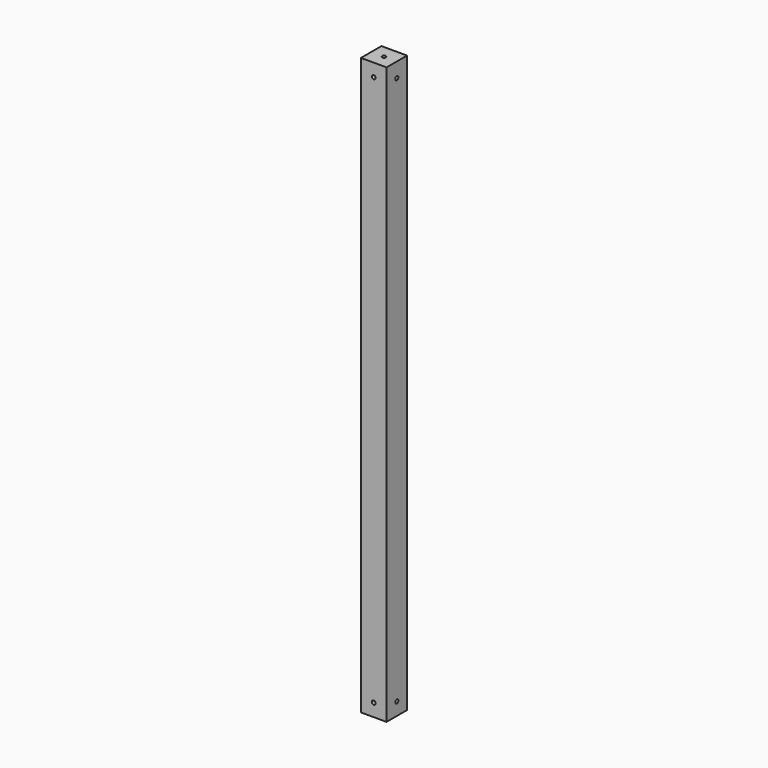
from build123d import *

# Parameters (mm, degrees)
F0_W      = 40
F0_H      = 40
F1_DEPTH  = 900
F2_R      = 3
F3_DEPTH  = 12
F4_R      = 3
F5_DEPTH  = 12
F6_R      = 3
F7_DEPTH  = 12
F8_R      = 3
F9_DEPTH  = 12
F10_R     = 3
F11_DEPTH = 12


with BuildPart() as f1:
    # F0 (on Top) → F1 (new body)
    with BuildSketch(Plane.XY):
        with Locations((20, 20)):
            Rectangle(F0_W, F0_H)
    extrude(amount=F1_DEPTH)

    # F2 (on face) → F3 (cut)
    with BuildSketch(Plane.XY.offset(900)):
        with Locations((20, 20)):
            Circle(F2_R)
    extrude(amount=-F3_DEPTH, mode=Mode.SUBTRACT)

    # F4 (on face) → F5 (cut)
    with BuildSketch(Plane.XZ):
        with Locations((20, 880)):
            Circle(F4_R)
    extrude(amount=-F5_DEPTH, mode=Mode.SUBTRACT)

    # F6 (on face) → F7 (cut)
    with BuildSketch(Plane.YZ.offset(40)):
        with Locations((20, 877)):
            Circle(F6_R)
    extrude(amount=-F7_DEPTH, mode=Mode.SUBTRACT)

    # F8 (on face) → F9 (cut)
    with BuildSketch(Plane.YZ.offset(40)):
        with Locations((20, 20)):
            Circle(F8_R)
    extrude(amount=-F9_DEPTH, mode=Mode.SUBTRACT)

    # F10 (on face) → F11 (cut)
    with BuildSketch(Plane.XZ):
        with Locations((20, 20)):
            Circle(F10_R)
    extrude(amount=-F11_DEPTH, mode=Mode.SUBTRACT)


solid = f1.part
